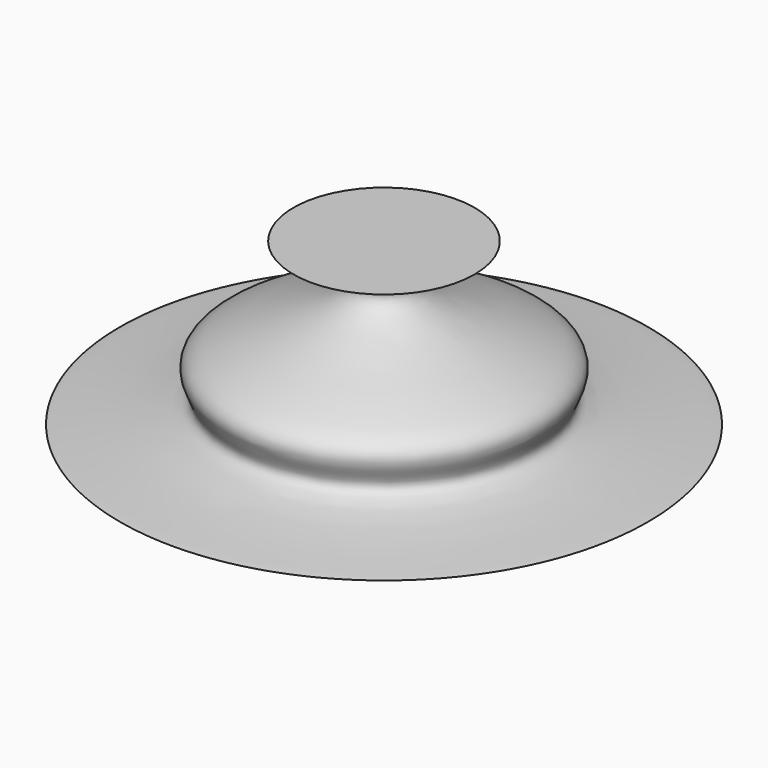
from build123d import *


with BuildPart() as f2:
    # F0 (on Front) → F2 (revolve)
    with BuildSketch(Plane.XZ):
        with BuildLine():
            Line((0, 38.588284744), (0, 0))
            add(Edge.make_bspline(
                [(0, 0), (106.190353632, 0), (16.2466672707, -1.2034077759), (55.3539767408, 17.5934152702), (-15.0520065799, 28.6238475892), (21.5665351301, 38.588284744)],
                knots=[0, 0, 0, 0, 0.4177651793, 0.6453312236, 1, 1, 1, 1], degree=3))
            Line((21.5665351301, 38.588284744), (0, 38.588284744))
        make_face()
    revolve(axis=Axis((0, 0, 37.4650023878), (0, 0, 1)))


solid = f2.part
